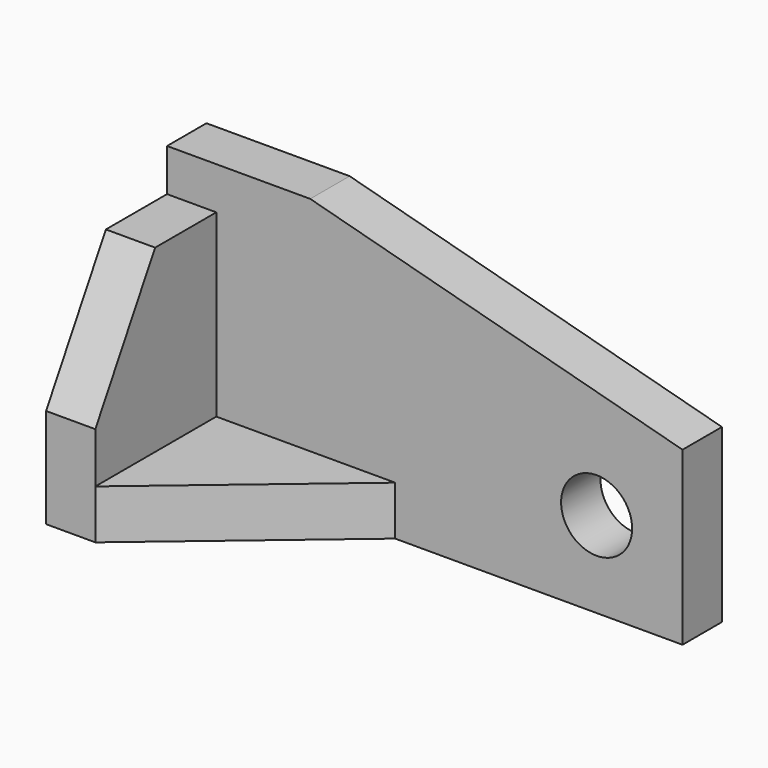
from build123d import *

# Parameters (mm, degrees)
F0_R     = 7.874
F3_DEPTH = 10.922
F4_DEPTH = 10.922
F5_DEPTH = 10.922


with BuildPart() as f3:
    # F0 (on Front) → F3 (new body)
    with BuildSketch(Plane.XZ):
        Polygon((114.3, 0), (114.3, 38.078794), (31.75, 60.198), (0, 60.198), (0, 0), align=None)
        with Locations((95.25, 19.05)):
            Circle(F0_R, mode=Mode.SUBTRACT)
    extrude(amount=F3_DEPTH)

    # F1 (on Right) → F4 (join)
    with BuildSketch(Plane.YZ):
        Polygon((-44.45, 0), (0, 0), (0, 50.8), (-10.343329, 50.8), (-27.878893, 50.8), (-44.45, 22.098), align=None)
    extrude(amount=F4_DEPTH)

    # F2 (on Top) → F5 (join)
    with BuildSketch(Plane.XY):
        Polygon((63.5, 0), (0, 0), (0, -44.45), (10.922, -44.45), align=None)
    extrude(amount=F5_DEPTH)


solid = f3.part
